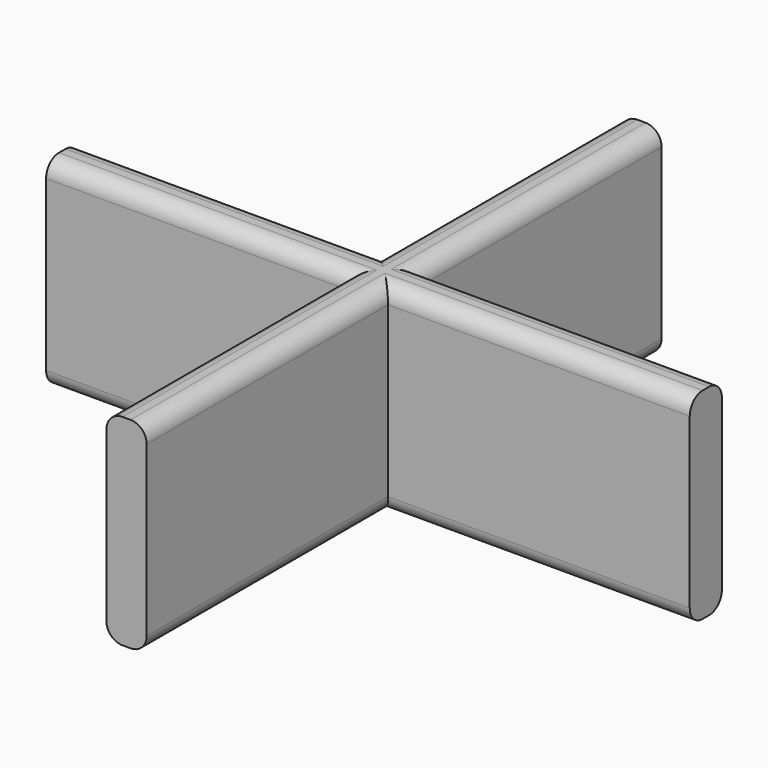
from build123d import *

# Parameters (mm, degrees)
F0_W     = 9.525
F0_H     = 1.27
F0_W_2   = 1.27
F0_H_2   = 9.525
F1_DEPTH = 6.35
F2_R     = 0.508


with BuildPart() as f1:
    # F0 (on Top) → F1 (new body)
    with BuildSketch(Plane.XY):
        with Locations((-5.3975, 0)):
            Rectangle(F0_W, F0_H)
        with Locations((0, 5.3975)):
            Rectangle(F0_W_2, F0_H_2)
        with Locations((5.3975, 0)):
            Rectangle(F0_W, F0_H)
        with Locations((0, -5.3975)):
            Rectangle(F0_W_2, F0_H_2)
        Rectangle(F0_W_2, F0_H)
    extrude(amount=F1_DEPTH)

    # F2
    f2_edges = [f1.edges().sort_by_distance(p)[0] for p in [
        (0.635, -5.3975, 6.35),
        (-0.635, -5.3975, 6.35),
        (-5.3975, -0.635, 6.35),
        (-5.3975, 0.635, 6.35),
        (-0.635, 5.3975, 6.35),
        (0.635, 5.3975, 6.35),
        (5.3975, 0.635, 6.35),
        (5.3975, -0.635, 6.35),
        (-5.3975, 0.635, 0),
        (-5.3975, -0.635, 0),
        (5.3975, -0.635, 0),
        (5.3975, 0.635, 0),
        (0.635, 5.3975, 0),
        (-0.635, 5.3975, 0),
        (-0.635, -5.3975, 0),
        (0.635, -5.3975, 0),
    ]]
    fillet(f2_edges, radius=F2_R)


solid = f1.part
